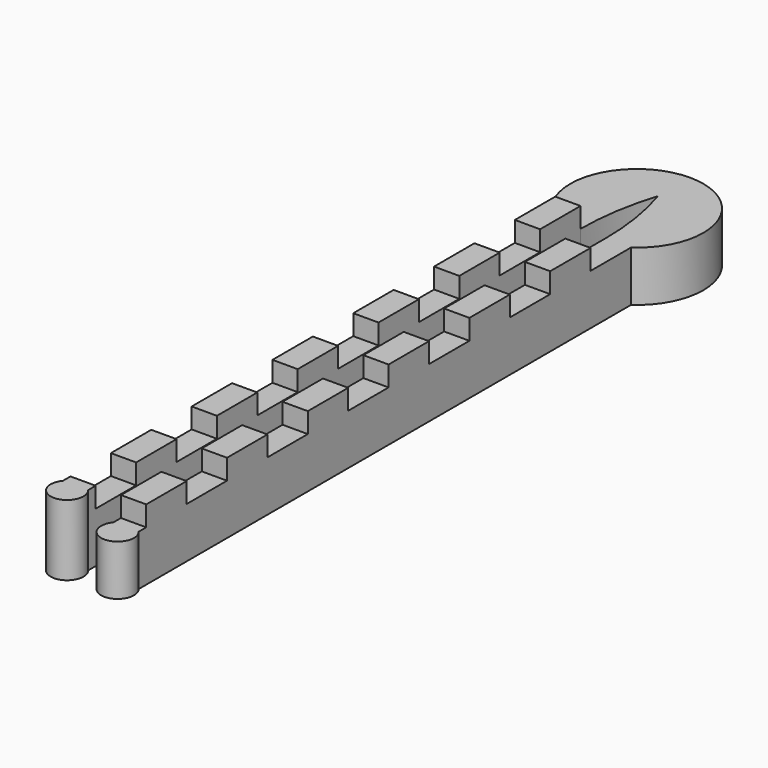
from build123d import *

# Parameters (mm, degrees)
F1_DEPTH = 6.35
F2_W     = 3.175
F2_H     = 6.35
F2_H_2   = 6.349999
F2_H_3   = 6.350001
F3_DEPTH = 2.54


with BuildPart() as f1:
    # F0 (on Top) → F1 (new body)
    with BuildSketch(Plane.XY):
        with BuildLine():
            Line((0, 36.501117), (0, 31.421117))
            ThreePointArc((0, 31.421117), (1.188232, 26.402755), (1.5875, 21.261117))
            Line((1.5875, 21.261117), (1.5875, -56.137312))
            ThreePointArc((1.5875, -56.137312), (3.175, -59.518786), (4.7625, -56.137312))
            Line((4.7625, -56.137312), (4.7625, 21.261117))
            ThreePointArc((4.7625, 21.261117), (7.983405, 30.631791), (0, 36.501117))
        make_face()
        with BuildLine():
            ThreePointArc((-1.5875, 21.261117), (-1.188232, 26.402755), (0, 31.421117))
            Line((0, 31.421117), (0, 36.501117))
            ThreePointArc((0, 36.501117), (-7.983405, 30.631791), (-4.7625, 21.261117))
            Line((-4.7625, 21.261117), (-4.7625, -56.137312))
            ThreePointArc((-4.7625, -56.137312), (-3.175, -59.518786), (-1.5875, -56.137312))
            Line((-1.5875, -56.137312), (-1.5875, 21.261117))
        make_face()
    extrude(amount=F1_DEPTH)

    # F2 (on face) → F3 (join)
    with BuildSketch(Plane.XY.offset(6.35)):
        with Locations((-3.175, 18.086117)):
            Rectangle(F2_W, F2_H)
        with Locations((3.175, 11.736117)):
            Rectangle(F2_W, F2_H)
        with Locations((-3.175, 5.386117)):
            Rectangle(F2_W, F2_H)
        with Locations((3.175, -0.963883)):
            Rectangle(F2_W, F2_H)
        with Locations((-3.175, -7.313883)):
            Rectangle(F2_W, F2_H)
        with Locations((3.175, -13.663883)):
            Rectangle(F2_W, F2_H)
        with Locations((-3.175, -20.013883)):
            Rectangle(F2_W, F2_H)
        with Locations((3.175, -26.363883)):
            Rectangle(F2_W, F2_H)
        with Locations((-3.175, -32.713883)):
            Rectangle(F2_W, F2_H)
        with Locations((3.175, -39.063883)):
            Rectangle(F2_W, F2_H)
        with Locations((-3.175, -45.413882)):
            Rectangle(F2_W, F2_H_2)
        with Locations((3.175, -51.763882)):
            Rectangle(F2_W, F2_H_3)
        with BuildLine():
            Line((-1.5875, -56.137312), (-1.5875, -54.938883))
            Line((-1.5875, -54.938883), (-4.7625, -54.938883))
            Line((-4.7625, -54.938883), (-4.7625, -56.137312))
            ThreePointArc((-4.7625, -56.137312), (-3.175, -59.518786), (-1.5875, -56.137312))
        make_face()
    extrude(amount=F3_DEPTH)


solid = f1.part
